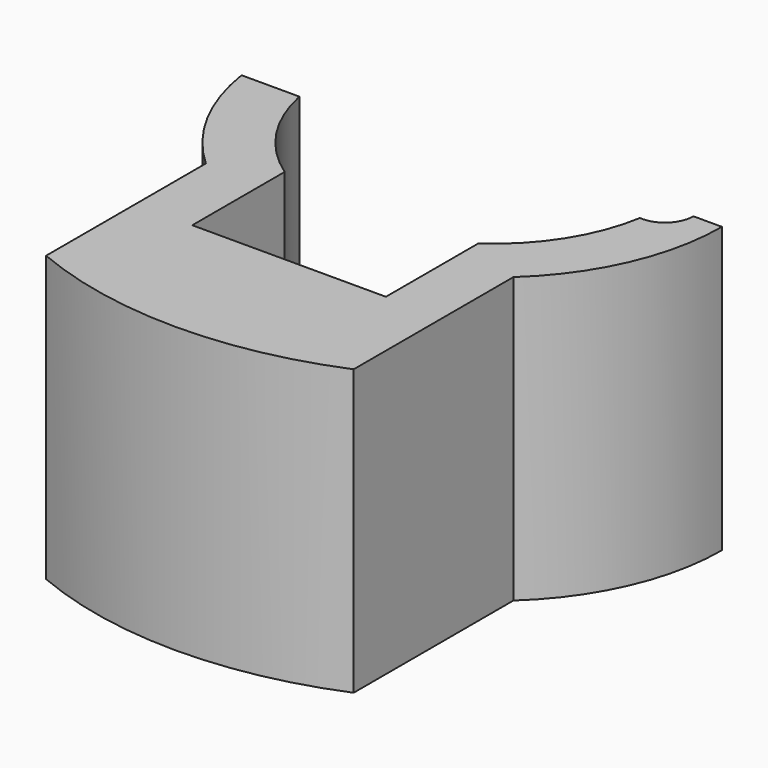
from build123d import *

# Parameters (mm, degrees)
F1_DEPTH = 25
F2_R     = 2
F3_DEPTH = 25


with BuildPart() as f1:
    # F0 (on Top) → F1 (new body)
    with BuildSketch(Plane.XY):
        with BuildLine():
            ThreePointArc((17.5, 0), (16.692508001, -1.8399501805), (14.7916666667, -2.4913043215))
            ThreePointArc((14.7916666667, -2.4913043215), (12.647897466, -8.0641608174), (8.5, -12.3592070943))
            Line((8.5, -12.3592070943), (8.5, -18.1038669902))
            ThreePointArc((8.5, -18.1038669902), (11.126610439, -16.6192220076), (13.5, -14.7563545634))
            ThreePointArc((13.5, -14.7563545634), (18.3030052177, -8.0622577483), (20, 0))
            Line((20, 0), (17.5, 0))
        make_face()
        with BuildLine():
            ThreePointArc((13.5, -14.7563545634), (11.126610439, -16.6192220076), (8.5, -18.1038669902))
            Line((8.5, -18.1038669902), (8.5, -22.5))
            Line((8.5, -22.5), (-8.5, -22.5))
            Line((-8.5, -22.5), (-8.5, -18.1038669902))
            ThreePointArc((-8.5, -18.1038669902), (-11.126610439, -16.6192220076), (-13.5, -14.7563545634))
            Line((-13.5, -14.7563545634), (-13.5, -32.2916397849))
            ThreePointArc((-13.5, -32.2916397849), (0, -35), (13.5, -32.2916397849))
            Line((13.5, -32.2916397849), (13.5, -14.7563545634))
        make_face()
        with BuildLine():
            ThreePointArc((-8.5, -12.3592070943), (-12.5069251936, -8.281112377), (-14.6969384567, -3))
            Line((-14.6969384567, -3), (-19.7737199333, -3))
            ThreePointArc((-19.7737199333, -3), (-17.6447747989, -9.4160460011), (-13.5, -14.7563545634))
            ThreePointArc((-13.5, -14.7563545634), (-11.126610439, -16.6192220076), (-8.5, -18.1038669902))
            Line((-8.5, -18.1038669902), (-8.5, -12.3592070943))
        make_face()
    extrude(amount=F1_DEPTH)

    # F2 (on Front) → F3 (cut)
    with BuildSketch(Plane.XZ):
        with Locations((-19, 15)):
            Circle(F2_R)
    extrude(amount=F3_DEPTH, mode=Mode.SUBTRACT)


solid = f1.part
